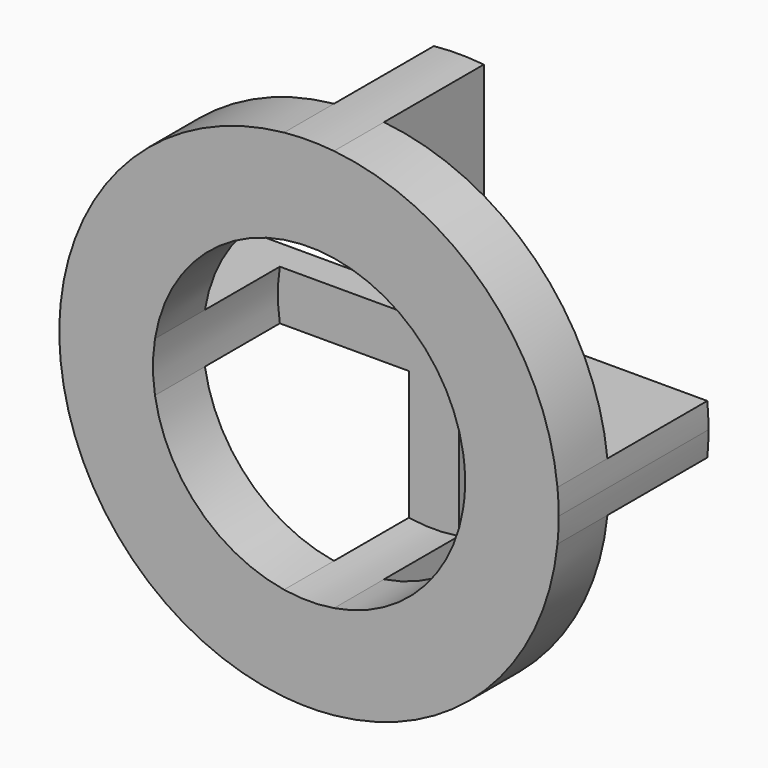
from build123d import *

# Parameters (mm, degrees)
F1_DEPTH = 3
F0_W     = 0.8
F0_H     = 0.8
F2_DEPTH = 0.5
F3_DEPTH = 2


with BuildPart() as f1:
    # F0 (on Front) → F1 (new body)
    with BuildSketch(Plane.XZ):
        with BuildLine():
            Line((-6.7150478527, -4.8896004256), (-6.7150478527, -3.377443213))
            ThreePointArc((-6.7150478527, -3.377443213), (-8.0828148057, -2.6774176301), (-8.7828403885, -1.3096506771))
            Line((-8.7828403885, -1.3096506771), (-10.2949976011, -1.3096506771))
            ThreePointArc((-10.2949976011, -1.3096506771), (-9.1434749774, -3.7380778019), (-6.7150478527, -4.8896004256))
        make_face()
        with BuildLine():
            Line((-5.9150478527, -4.8896004256), (-5.9150478527, -3.377443213))
            ThreePointArc((-5.9150478527, -3.377443213), (-6.3150478527, -3.4096506771), (-6.7150478527, -3.377443213))
            Line((-6.7150478527, -3.377443213), (-6.7150478527, -4.8896004256))
            Line((-6.7150478527, -4.8896004256), (-5.9150478527, -4.8896004256))
        make_face()
        with BuildLine():
            Line((-2.3350981043, -1.3096506771), (-3.8472553168, -1.3096506771))
            ThreePointArc((-3.8472553168, -1.3096506771), (-4.5472808997, -2.6774176301), (-5.9150478527, -3.377443213))
            Line((-5.9150478527, -3.377443213), (-5.9150478527, -4.8896004256))
            ThreePointArc((-5.9150478527, -4.8896004256), (-3.4866207279, -3.7380778019), (-2.3350981043, -1.3096506771))
        make_face()
        with BuildLine():
            ThreePointArc((-3.8472553168, -0.5096506771), (-3.8231127272, -0.7090033991), (-3.8150478527, -0.9096506771))
            ThreePointArc((-3.8150478527, -0.9096506771), (-3.8231127272, -1.1102979552), (-3.8472553168, -1.3096506771))
            Line((-3.8472553168, -1.3096506771), (-2.3350981043, -1.3096506771))
            Line((-2.3350981043, -1.3096506771), (-2.3350981043, -0.5096506771))
            Line((-2.3350981043, -0.5096506771), (-3.8472553168, -0.5096506771))
        make_face()
        with BuildLine():
            ThreePointArc((-5.9150478527, 1.5581418587), (-4.5472808997, 0.8581162758), (-3.8472553168, -0.5096506771))
            Line((-3.8472553168, -0.5096506771), (-2.3350981043, -0.5096506771))
            ThreePointArc((-2.3350981043, -0.5096506771), (-3.4866207279, 1.9187764476), (-5.9150478527, 3.0702990713))
            Line((-5.9150478527, 3.0702990713), (-5.9150478527, 1.5581418587))
        make_face()
        with BuildLine():
            ThreePointArc((-6.7150478527, 1.5581418587), (-6.3150478527, 1.5903493229), (-5.9150478527, 1.5581418587))
            Line((-5.9150478527, 1.5581418587), (-5.9150478527, 3.0702990713))
            Line((-5.9150478527, 3.0702990713), (-6.7150478527, 3.0702990713))
            Line((-6.7150478527, 3.0702990713), (-6.7150478527, 1.5581418587))
        make_face()
        with BuildLine():
            ThreePointArc((-8.7828403885, -0.5096506771), (-8.0828148057, 0.8581162758), (-6.7150478527, 1.5581418587))
            Line((-6.7150478527, 1.5581418587), (-6.7150478527, 3.0702990713))
            ThreePointArc((-6.7150478527, 3.0702990713), (-9.1434749774, 1.9187764476), (-10.2949976011, -0.5096506771))
            Line((-10.2949976011, -0.5096506771), (-8.7828403885, -0.5096506771))
        make_face()
        with BuildLine():
            ThreePointArc((-8.7828403885, -1.3096506771), (-8.8150478527, -0.9096506771), (-8.7828403885, -0.5096506771))
            Line((-8.7828403885, -0.5096506771), (-10.2949976011, -0.5096506771))
            Line((-10.2949976011, -0.5096506771), (-10.2949976011, -1.3096506771))
            Line((-10.2949976011, -1.3096506771), (-8.7828403885, -1.3096506771))
        make_face()
        with BuildLine():
            Line((-6.7150478527, 3.0702990713), (-5.9150478527, 3.0702990713))
            ThreePointArc((-5.9150478527, 3.0702990713), (-6.3150478527, 3.0903493229), (-6.7150478527, 3.0702990713))
        make_face()
        with BuildLine():
            ThreePointArc((-2.3150478527, -0.9096506771), (-2.3200635603, -0.7093995769), (-2.3350981043, -0.5096506771))
            Line((-2.3350981043, -0.5096506771), (-2.3350981043, -1.3096506771))
            ThreePointArc((-2.3350981043, -1.3096506771), (-2.3200635603, -1.1099017774), (-2.3150478527, -0.9096506771))
        make_face()
        with BuildLine():
            Line((-10.2949976011, -1.3096506771), (-10.2949976011, -0.5096506771))
            ThreePointArc((-10.2949976011, -0.5096506771), (-10.3150478527, -0.9096506771), (-10.2949976011, -1.3096506771))
        make_face()
        with BuildLine():
            ThreePointArc((-6.7150478527, -4.8896004256), (-6.3150478527, -4.9096506771), (-5.9150478527, -4.8896004256))
            Line((-5.9150478527, -4.8896004256), (-6.7150478527, -4.8896004256))
        make_face()
    extrude(amount=F1_DEPTH)

    # F0 (on Front) → F2 (join)
    with BuildSketch(Plane.XZ):
        with BuildLine():
            ThreePointArc((-6.7150478527, -3.377443213), (-6.3150478527, -3.4096506771), (-5.9150478527, -3.377443213))
            Line((-5.9150478527, -3.377443213), (-5.9150478527, -1.3096506771))
            Line((-5.9150478527, -1.3096506771), (-6.7150478527, -1.3096506771))
            Line((-6.7150478527, -1.3096506771), (-6.7150478527, -3.377443213))
        make_face()
        with Locations((-6.3150478527, -0.9096506771)):
            Rectangle(F0_W, F0_H)
        with BuildLine():
            Line((-6.7150478527, -1.3096506771), (-6.7150478527, -0.5096506771))
            Line((-6.7150478527, -0.5096506771), (-8.7828403885, -0.5096506771))
            ThreePointArc((-8.7828403885, -0.5096506771), (-8.8150478527, -0.9096506771), (-8.7828403885, -1.3096506771))
            Line((-8.7828403885, -1.3096506771), (-6.7150478527, -1.3096506771))
        make_face()
        with BuildLine():
            Line((-5.9150478527, -0.5096506771), (-5.9150478527, 1.5581418587))
            ThreePointArc((-5.9150478527, 1.5581418587), (-6.3150478527, 1.5903493229), (-6.7150478527, 1.5581418587))
            Line((-6.7150478527, 1.5581418587), (-6.7150478527, -0.5096506771))
            Line((-6.7150478527, -0.5096506771), (-5.9150478527, -0.5096506771))
        make_face()
        with BuildLine():
            ThreePointArc((-3.8472553168, -1.3096506771), (-3.8231127272, -1.1102979552), (-3.8150478527, -0.9096506771))
            ThreePointArc((-3.8150478527, -0.9096506771), (-3.8231127272, -0.7090033991), (-3.8472553168, -0.5096506771))
            Line((-3.8472553168, -0.5096506771), (-5.9150478527, -0.5096506771))
            Line((-5.9150478527, -0.5096506771), (-5.9150478527, -1.3096506771))
            Line((-5.9150478527, -1.3096506771), (-3.8472553168, -1.3096506771))
        make_face()
    extrude(amount=F2_DEPTH)

    # F0 (on Front) → F3 (cut)
    with BuildSketch(Plane.XZ):
        with BuildLine():
            Line((-2.3350981043, -1.3096506771), (-3.8472553168, -1.3096506771))
            ThreePointArc((-3.8472553168, -1.3096506771), (-4.5472808997, -2.6774176301), (-5.9150478527, -3.377443213))
            Line((-5.9150478527, -3.377443213), (-5.9150478527, -4.8896004256))
            ThreePointArc((-5.9150478527, -4.8896004256), (-3.4866207279, -3.7380778019), (-2.3350981043, -1.3096506771))
        make_face()
        with BuildLine():
            Line((-6.7150478527, -4.8896004256), (-6.7150478527, -3.377443213))
            ThreePointArc((-6.7150478527, -3.377443213), (-8.0828148057, -2.6774176301), (-8.7828403885, -1.3096506771))
            Line((-8.7828403885, -1.3096506771), (-10.2949976011, -1.3096506771))
            ThreePointArc((-10.2949976011, -1.3096506771), (-9.1434749774, -3.7380778019), (-6.7150478527, -4.8896004256))
        make_face()
        with BuildLine():
            ThreePointArc((-8.7828403885, -0.5096506771), (-8.0828148057, 0.8581162758), (-6.7150478527, 1.5581418587))
            Line((-6.7150478527, 1.5581418587), (-6.7150478527, 3.0702990713))
            ThreePointArc((-6.7150478527, 3.0702990713), (-9.1434749774, 1.9187764476), (-10.2949976011, -0.5096506771))
            Line((-10.2949976011, -0.5096506771), (-8.7828403885, -0.5096506771))
        make_face()
        with BuildLine():
            ThreePointArc((-5.9150478527, 1.5581418587), (-4.5472808997, 0.8581162758), (-3.8472553168, -0.5096506771))
            Line((-3.8472553168, -0.5096506771), (-2.3350981043, -0.5096506771))
            ThreePointArc((-2.3350981043, -0.5096506771), (-3.4866207279, 1.9187764476), (-5.9150478527, 3.0702990713))
            Line((-5.9150478527, 3.0702990713), (-5.9150478527, 1.5581418587))
        make_face()
    extrude(amount=F3_DEPTH, mode=Mode.SUBTRACT)


solid = f1.part
